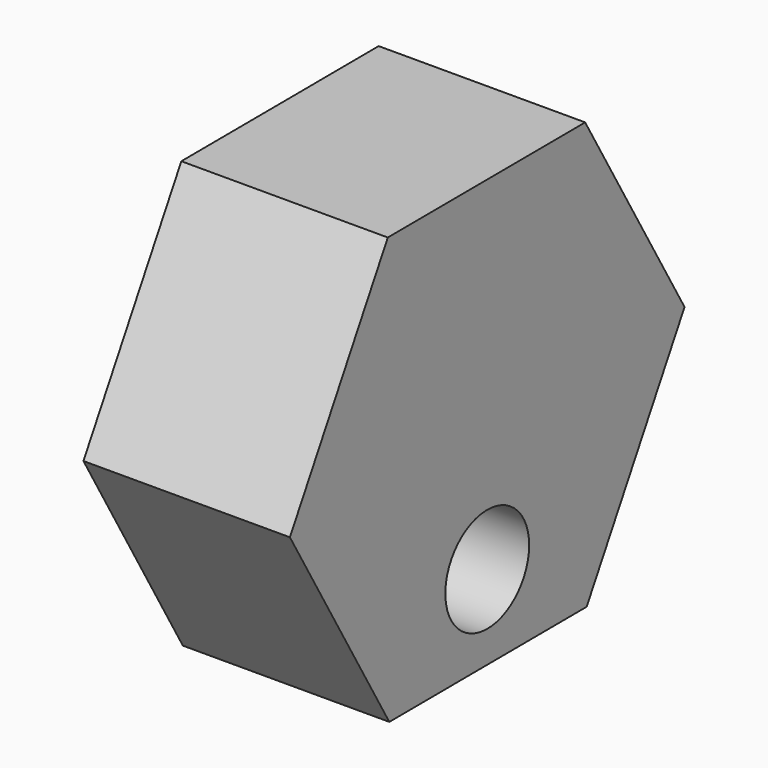
from build123d import *

# Parameters (mm, degrees)
F0_R     = 8.249045
F1_DEPTH = 32.5


with BuildPart() as f1:
    # F0 (on Right) → F1 (new body)
    with BuildSketch(Plane.YZ):
        Polygon((38.824608, 0.172873), (19.262591, 33.709534), (-19.562017, 33.53666), (-38.824608, -0.172873), (-19.262591, -33.709534), (19.562017, -33.53666), align=None)
        with Locations((0, -20.395683)):
            Circle(F0_R, mode=Mode.SUBTRACT)
    extrude(amount=F1_DEPTH)


solid = f1.part
